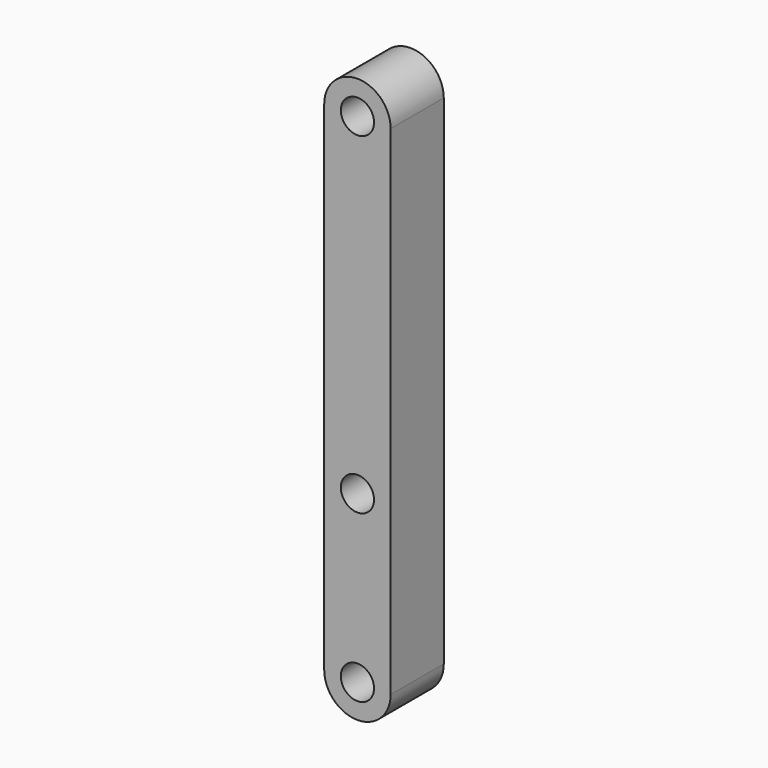
from build123d import *

# Parameters (mm, degrees)
F0_R     = 2.5
F1_DEPTH = 10


with BuildPart() as f1:
    # F0 (on Front) → F1 (new body)
    with BuildSketch(Plane.XZ):
        with BuildLine():
            Line((5, -75), (5, 0))
            ThreePointArc((5, 0), (0, 5), (-5, 0))
            Line((-5, 0), (-5, -75))
            ThreePointArc((-5, -75), (0, -80), (5, -75))
        make_face()
        with Locations((0, -75)):
            Circle(F0_R, mode=Mode.SUBTRACT)
        with Locations((0, -50)):
            Circle(F0_R, mode=Mode.SUBTRACT)
        Circle(F0_R, mode=Mode.SUBTRACT)
    extrude(amount=F1_DEPTH)


solid = f1.part
